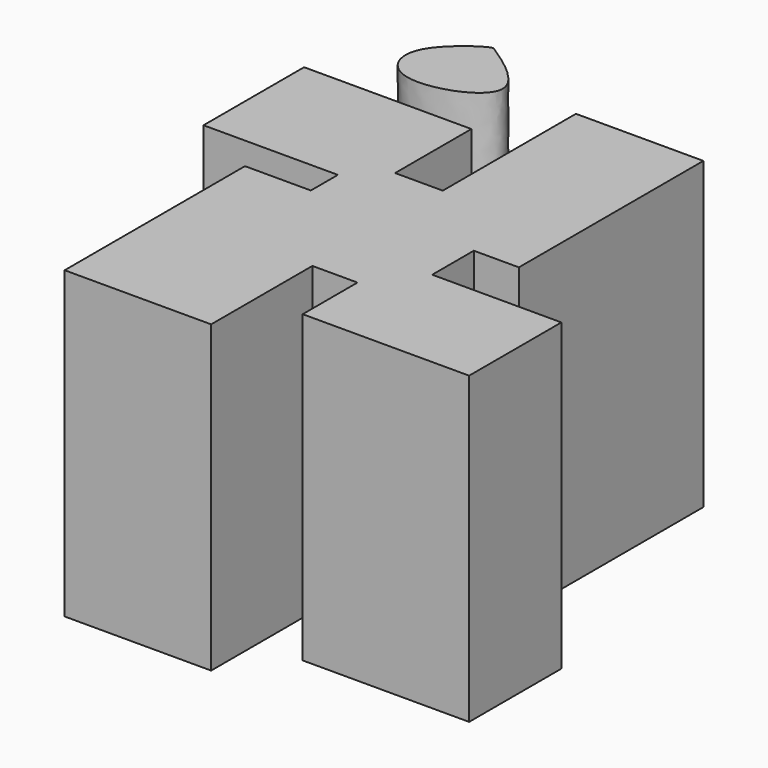
from build123d import *

# Parameters (mm, degrees)
F0_W     = 7.6583875343
F0_H     = 7.0537785068
F0_W_2   = 19.1459693015
F0_H_2   = 14.913703315
F0_W_3   = 18.7428966165
F0_H_3   = 22.9751653969
F0_W_4   = 8.6660701782
F0_H_4   = 10.882973671
F1_DEPTH = 70.866


with BuildPart() as f1:
    # F0 (on Top) → F1 (new body)
    with BuildSketch(Plane.XY):
        Polygon((-18.7428966165, 7.8599248081), (-18.7428966165, 14.913703315), (-11.0845090821, 14.913703315), (-11.0845090821, 37.0827205479), (-49.9810576439, 37.0827205479), (-49.9810576439, 7.8599248081), align=None)
        with Locations((-14.9137028493, 11.3868140616)):
            Rectangle(F0_W, F0_H)
        Polygon((0, 14.913703315), (-11.0845090821, 14.913703315), (-11.0845090821, 7.8599248081), (-18.7428966165, 7.8599248081), (-18.7428966165, 0), (0, 0), align=None)
        Polygon((0, 53.6087155342), (0, 14.913703315), (19.1459693015, 14.913703315), (19.1459693015, 0), (29.6258702874, 0), (29.6258702874, 53.6087155342), align=None)
        with Locations((9.5729846507, 7.4568516575)):
            Rectangle(F0_W_2, F0_H_2)
        with Locations((-9.3714483082, -11.4875826985)):
            Rectangle(F0_W_3, F0_H_3)
        Polygon((-18.7428966165, -22.9751653969), (-18.7428966165, 0), (-34.0596735477, 0), (-34.0596735477, -52.3994937539), (0, -52.3994937539), (0, -22.9751653969), align=None)
        Polygon((19.1459693015, 0), (0, 0), (0, -22.9751653969), (10.4798991233, -22.9751653969), (10.4798991233, -12.092191726), (19.1459693015, -12.092191726), align=None)
        Polygon((49.1749159992, -12.092191726), (19.1459693015, -12.092191726), (19.1459693015, -22.9751653969), (10.4798991233, -22.9751653969), (10.4798991233, -38.8965494931), (49.1749159992, -38.8965494931), align=None)
        with Locations((14.8129342124, -17.5336785614)):
            Rectangle(F0_W_4, F0_H_4)
    extrude(amount=F1_DEPTH)


with BuildPart() as f1b:
    # F0 (on Top) → F1, piece 2 (new body)
    with BuildSketch(Plane.XY):
        with BuildLine():
            add(Edge.make_bspline(
                [(-38.0904041231, 55.0194717944), (-36.3780115506, 59.4682564612), (-28.1672485197, 64.9583832558), (-27.3432712808, 63.9089394809), (-7.203577478, 51.5657441557), (-35.0227511285, 41.3843094842), (-39.6099892146, 51.0715996981), (-38.0904041231, 55.0194717944)],
                knots=[0, 0, 0, 0, 0.2250552172, 0.2995288273, 0.5396626284, 0.800284959, 1, 1, 1, 1], degree=3))
        make_face()
    extrude(amount=F1_DEPTH)


solid = Compound([f1.part, f1b.part])
